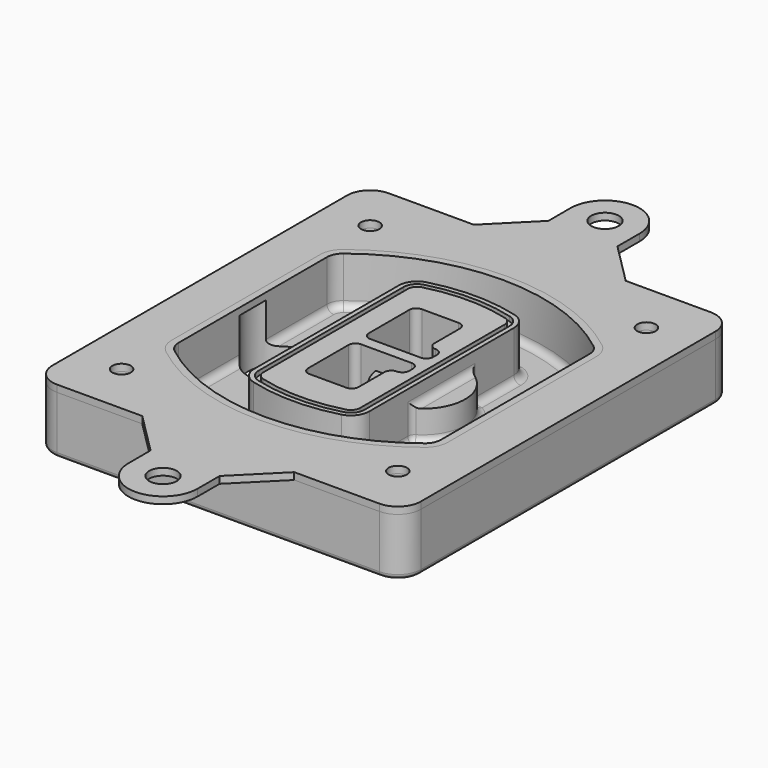
from build123d import *

# Parameters (mm, degrees)
F0_R      = 4
F1_DEPTH  = 25
F2_DEPTH  = 3
F3_DEPTH  = 18
F5_DEPTH  = 21
F6_DEPTH  = 2
F8_DEPTH  = 20
F9_DEPTH  = 16
F10_DEPTH = 25
F7_R      = 6
F7_R_2    = 4
F11_DEPTH = 6
F13_DEPTH = 9
F14_R     = 3
F15_R     = 2
F16_R     = 6
F16_R_2   = 4
F17_DEPTH = 3


with BuildPart() as f1:
    # F0 (on Top) → F1 (new body)
    with BuildSketch(Plane.XY):
        with BuildLine():
            ThreePointArc((-80, -80), (-77.0710678119, -87.0710678119), (-70, -90))
            Line((-70, -90), (70, -90))
            ThreePointArc((70, -90), (77.0710678119, -87.0710678119), (80, -80))
            Line((80, -80), (80, 80))
            ThreePointArc((80, 80), (77.0710678119, 87.0710678119), (70, 90))
            Line((70, 90), (-70, 90))
            ThreePointArc((-70, 90), (-77.0710678119, 87.0710678119), (-80, 80))
            Line((-80, 80), (-80, -80))
        make_face()
        with Locations((-60, -67.5)):
            Circle(F0_R, mode=Mode.SUBTRACT)
        with Locations((60, -67.5)):
            Circle(F0_R, mode=Mode.SUBTRACT)
        with Locations((-60, 67.5)):
            Circle(F0_R, mode=Mode.SUBTRACT)
        with BuildLine():
            ThreePointArc((-64, 40.2934422872), (-62.5820384798, 46.4328484224), (-58.6153846154, 51.3286200352))
            ThreePointArc((-58.6153846154, 51.3286200352), (0, 71.5), (58.6153846154, 51.3286200352))
            ThreePointArc((58.6153846154, 51.3286200352), (62.5820384798, 46.4328484224), (64, 40.2934422872))
            Line((64, 40.2934422872), (64, -40.2934422872))
            ThreePointArc((64, -40.2934422872), (62.5820384798, -46.4328484224), (58.6153846154, -51.3286200352))
            ThreePointArc((58.6153846154, -51.3286200352), (0, -71.5), (-58.6153846154, -51.3286200352))
            ThreePointArc((-58.6153846154, -51.3286200352), (-62.5820384798, -46.4328484224), (-64, -40.2934422872))
            Line((-64, -40.2934422872), (-64, 40.2934422872))
        make_face(mode=Mode.SUBTRACT)
        with Locations((60, 67.5)):
            Circle(F0_R, mode=Mode.SUBTRACT)
        with BuildLine():
            ThreePointArc((58.6153846154, 51.3286200352), (0, 71.5), (-58.6153846154, 51.3286200352))
            ThreePointArc((-58.6153846154, 51.3286200352), (-62.5820384798, 46.4328484224), (-64, 40.2934422872))
            Line((-64, 40.2934422872), (-64, -40.2934422872))
            ThreePointArc((-64, -40.2934422872), (-62.5820384798, -46.4328484224), (-58.6153846154, -51.3286200352))
            ThreePointArc((-58.6153846154, -51.3286200352), (0, -71.5), (58.6153846154, -51.3286200352))
            ThreePointArc((58.6153846154, -51.3286200352), (62.5820384798, -46.4328484224), (64, -40.2934422872))
            Line((64, -40.2934422872), (64, 40.2934422872))
            ThreePointArc((64, 40.2934422872), (62.5820384798, 46.4328484224), (58.6153846154, 51.3286200352))
        make_face()
        with BuildLine():
            Line((-60, -40.2934422872), (-60, 40.2934422872))
            ThreePointArc((-60, 40.2934422872), (-58.9871703427, 44.6787323838), (-56.1538461538, 48.1757121072))
            ThreePointArc((-56.1538461538, 48.1757121072), (0, 67.5), (56.1538461538, 48.1757121072))
            ThreePointArc((56.1538461538, 48.1757121072), (58.9871703427, 44.6787323838), (60, 40.2934422872))
            Line((60, 40.2934422872), (60, -40.2934422872))
            ThreePointArc((60, -40.2934422872), (58.9871703427, -44.6787323838), (56.1538461538, -48.1757121072))
            ThreePointArc((56.1538461538, -48.1757121072), (0, -67.5), (-56.1538461538, -48.1757121072))
            ThreePointArc((-56.1538461538, -48.1757121072), (-58.9871703427, -44.6787323838), (-60, -40.2934422872))
        make_face(mode=Mode.SUBTRACT)
        with BuildLine():
            ThreePointArc((-56.1538461538, 48.1757121072), (-58.9871703427, 44.6787323838), (-60, 40.2934422872))
            Line((-60, 40.2934422872), (-60, -40.2934422872))
            ThreePointArc((-60, -40.2934422872), (-58.9871703427, -44.6787323838), (-56.1538461538, -48.1757121072))
            ThreePointArc((-56.1538461538, -48.1757121072), (0, -67.5), (56.1538461538, -48.1757121072))
            ThreePointArc((56.1538461538, -48.1757121072), (58.9871703427, -44.6787323838), (60, -40.2934422872))
            Line((60, -40.2934422872), (60, 40.2934422872))
            ThreePointArc((60, 40.2934422872), (58.9871703427, 44.6787323838), (56.1538461538, 48.1757121072))
            ThreePointArc((56.1538461538, 48.1757121072), (0, 67.5), (-56.1538461538, 48.1757121072))
        make_face()
        with BuildLine():
            ThreePointArc((54.3076923077, 45.8110311612), (56.2910192399, 43.3631453548), (57, 40.2934422872))
            Line((57, 40.2934422872), (57, -40.2934422872))
            ThreePointArc((57, -40.2934422872), (56.2910192399, -43.3631453548), (54.3076923077, -45.8110311612))
            ThreePointArc((54.3076923077, -45.8110311612), (0, -64.5), (-54.3076923077, -45.8110311612))
            ThreePointArc((-54.3076923077, -45.8110311612), (-56.2910192399, -43.3631453548), (-57, -40.2934422872))
            Line((-57, -40.2934422872), (-57, 40.2934422872))
            ThreePointArc((-57, 40.2934422872), (-56.2910192399, 43.3631453548), (-54.3076923077, 45.8110311612))
            ThreePointArc((-54.3076923077, 45.8110311612), (0, 64.5), (54.3076923077, 45.8110311612))
        make_face(mode=Mode.SUBTRACT)
        with BuildLine():
            Line((57, -40.2934422872), (57, 40.2934422872))
            ThreePointArc((57, 40.2934422872), (56.2910192399, 43.3631453548), (54.3076923077, 45.8110311612))
            ThreePointArc((54.3076923077, 45.8110311612), (0, 64.5), (-54.3076923077, 45.8110311612))
            ThreePointArc((-54.3076923077, 45.8110311612), (-56.2910192399, 43.3631453548), (-57, 40.2934422872))
            Line((-57, 40.2934422872), (-57, -40.2934422872))
            ThreePointArc((-57, -40.2934422872), (-56.2910192399, -43.3631453548), (-54.3076923077, -45.8110311612))
            ThreePointArc((-54.3076923077, -45.8110311612), (0, -64.5), (54.3076923077, -45.8110311612))
            ThreePointArc((54.3076923077, -45.8110311612), (56.2910192399, -43.3631453548), (57, -40.2934422872))
        make_face()
    extrude(amount=-F1_DEPTH)

    # F0 (on Top) → F2 (join)
    with BuildSketch(Plane.XY):
        with BuildLine():
            ThreePointArc((-56.1538461538, 48.1757121072), (-58.9871703427, 44.6787323838), (-60, 40.2934422872))
            Line((-60, 40.2934422872), (-60, -40.2934422872))
            ThreePointArc((-60, -40.2934422872), (-58.9871703427, -44.6787323838), (-56.1538461538, -48.1757121072))
            ThreePointArc((-56.1538461538, -48.1757121072), (0, -67.5), (56.1538461538, -48.1757121072))
            ThreePointArc((56.1538461538, -48.1757121072), (58.9871703427, -44.6787323838), (60, -40.2934422872))
            Line((60, -40.2934422872), (60, 40.2934422872))
            ThreePointArc((60, 40.2934422872), (58.9871703427, 44.6787323838), (56.1538461538, 48.1757121072))
            ThreePointArc((56.1538461538, 48.1757121072), (0, 67.5), (-56.1538461538, 48.1757121072))
        make_face()
        with BuildLine():
            ThreePointArc((54.3076923077, 45.8110311612), (56.2910192399, 43.3631453548), (57, 40.2934422872))
            Line((57, 40.2934422872), (57, -40.2934422872))
            ThreePointArc((57, -40.2934422872), (56.2910192399, -43.3631453548), (54.3076923077, -45.8110311612))
            ThreePointArc((54.3076923077, -45.8110311612), (0, -64.5), (-54.3076923077, -45.8110311612))
            ThreePointArc((-54.3076923077, -45.8110311612), (-56.2910192399, -43.3631453548), (-57, -40.2934422872))
            Line((-57, -40.2934422872), (-57, 40.2934422872))
            ThreePointArc((-57, 40.2934422872), (-56.2910192399, 43.3631453548), (-54.3076923077, 45.8110311612))
            ThreePointArc((-54.3076923077, 45.8110311612), (0, 64.5), (54.3076923077, 45.8110311612))
        make_face(mode=Mode.SUBTRACT)
    extrude(amount=F2_DEPTH)

    # F0 (on Top) → F3 (cut)
    with BuildSketch(Plane.XY):
        with BuildLine():
            Line((57, -40.2934422872), (57, 40.2934422872))
            ThreePointArc((57, 40.2934422872), (56.2910192399, 43.3631453548), (54.3076923077, 45.8110311612))
            ThreePointArc((54.3076923077, 45.8110311612), (0, 64.5), (-54.3076923077, 45.8110311612))
            ThreePointArc((-54.3076923077, 45.8110311612), (-56.2910192399, 43.3631453548), (-57, 40.2934422872))
            Line((-57, 40.2934422872), (-57, -40.2934422872))
            ThreePointArc((-57, -40.2934422872), (-56.2910192399, -43.3631453548), (-54.3076923077, -45.8110311612))
            ThreePointArc((-54.3076923077, -45.8110311612), (0, -64.5), (54.3076923077, -45.8110311612))
            ThreePointArc((54.3076923077, -45.8110311612), (56.2910192399, -43.3631453548), (57, -40.2934422872))
        make_face()
    extrude(amount=-F3_DEPTH, mode=Mode.SUBTRACT)

    # F4 (on face) → F5 (join, through all)
    with BuildSketch(Plane.XY.offset(3)):
        with BuildLine():
            ThreePointArc((-25, -39.2465276821), (-23.3511545998, -44.1109737193), (-19.0842911877, -46.9702398883))
            ThreePointArc((-19.0842911877, -46.9702398883), (0, -49.5), (19.0842911877, -46.9702398883))
            ThreePointArc((19.0842911877, -46.9702398883), (23.3511545998, -44.1109737193), (25, -39.2465276821))
            Line((25, -39.2465276821), (25, 39.2465276821))
            ThreePointArc((25, 39.2465276821), (23.3511545998, 44.1109737193), (19.0842911877, 46.9702398883))
            ThreePointArc((19.0842911877, 46.9702398883), (0, 49.5), (-19.0842911877, 46.9702398883))
            ThreePointArc((-19.0842911877, 46.9702398883), (-23.3511545998, 44.1109737193), (-25, 39.2465276821))
            Line((-25, 39.2465276821), (-25, -39.2465276821))
        make_face()
        with BuildLine():
            ThreePointArc((18.5632183908, 45.0393118368), (21.7633659499, 42.89486221), (23, 39.2465276821))
            Line((23, 39.2465276821), (23, -39.2465276821))
            ThreePointArc((23, -39.2465276821), (21.7633659499, -42.89486221), (18.5632183908, -45.0393118368))
            ThreePointArc((18.5632183908, -45.0393118368), (0, -47.5), (-18.5632183908, -45.0393118368))
            ThreePointArc((-18.5632183908, -45.0393118368), (-21.7633659499, -42.89486221), (-23, -39.2465276821))
            Line((-23, -39.2465276821), (-23, 39.2465276821))
            ThreePointArc((-23, 39.2465276821), (-21.7633659499, 42.89486221), (-18.5632183908, 45.0393118368))
            ThreePointArc((-18.5632183908, 45.0393118368), (0, 47.5), (18.5632183908, 45.0393118368))
        make_face(mode=Mode.SUBTRACT)
        with BuildLine():
            Line((23, -39.2465276821), (23, 39.2465276821))
            ThreePointArc((23, 39.2465276821), (21.7633659499, 42.89486221), (18.5632183908, 45.0393118368))
            ThreePointArc((18.5632183908, 45.0393118368), (0, 47.5), (-18.5632183908, 45.0393118368))
            ThreePointArc((-18.5632183908, 45.0393118368), (-21.7633659499, 42.89486221), (-23, 39.2465276821))
            Line((-23, 39.2465276821), (-23, -39.2465276821))
            ThreePointArc((-23, -39.2465276821), (-21.7633659499, -42.89486221), (-18.5632183908, -45.0393118368))
            ThreePointArc((-18.5632183908, -45.0393118368), (0, -47.5), (18.5632183908, -45.0393118368))
            ThreePointArc((18.5632183908, -45.0393118368), (21.7633659499, -42.89486221), (23, -39.2465276821))
        make_face()
        with BuildLine():
            ThreePointArc((18.0421455939, 43.1083837852), (20.1755772999, 41.6787507007), (21, 39.2465276821))
            Line((21, 39.2465276821), (21, -39.2465276821))
            ThreePointArc((21, -39.2465276821), (20.1755772999, -41.6787507007), (18.0421455939, -43.1083837852))
            ThreePointArc((18.0421455939, -43.1083837852), (0, -45.5), (-18.0421455939, -43.1083837852))
            ThreePointArc((-18.0421455939, -43.1083837852), (-20.1755772999, -41.6787507007), (-21, -39.2465276821))
            Line((-21, -39.2465276821), (-21, 39.2465276821))
            ThreePointArc((-21, 39.2465276821), (-20.1755772999, 41.6787507007), (-18.0421455939, 43.1083837852))
            ThreePointArc((-18.0421455939, 43.1083837852), (0, 45.5), (18.0421455939, 43.1083837852))
        make_face(mode=Mode.SUBTRACT)
        with BuildLine():
            Line((21, -39.2465276821), (21, 39.2465276821))
            ThreePointArc((21, 39.2465276821), (20.1755772999, 41.6787507007), (18.0421455939, 43.1083837852))
            ThreePointArc((18.0421455939, 43.1083837852), (0, 45.5), (-18.0421455939, 43.1083837852))
            ThreePointArc((-18.0421455939, 43.1083837852), (-20.1755772999, 41.6787507007), (-21, 39.2465276821))
            Line((-21, 39.2465276821), (-21, -39.2465276821))
            ThreePointArc((-21, -39.2465276821), (-20.1755772999, -41.6787507007), (-18.0421455939, -43.1083837852))
            ThreePointArc((-18.0421455939, -43.1083837852), (0, -45.5), (18.0421455939, -43.1083837852))
            ThreePointArc((18.0421455939, -43.1083837852), (20.1755772999, -41.6787507007), (21, -39.2465276821))
        make_face()
        with BuildLine():
            Line((-8, -2.5), (14, -2.5))
            ThreePointArc((14, -2.5), (16.1213203436, -3.3786796564), (17, -5.5))
            Line((17, -5.5), (17, -7.5))
            ThreePointArc((17, -7.5), (16.1213203436, -9.6213203436), (14, -10.5))
            ThreePointArc((14, -10.5), (11.8786796564, -11.3786796564), (11, -13.5))
            Line((11, -13.5), (11, -27.5))
            ThreePointArc((11, -27.5), (10.1213203436, -29.6213203436), (8, -30.5))
            Line((8, -30.5), (-8, -30.5))
            ThreePointArc((-8, -30.5), (-10.1213203436, -29.6213203436), (-11, -27.5))
            Line((-11, -27.5), (-11, -5.5))
            ThreePointArc((-11, -5.5), (-10.1213203436, -3.3786796564), (-8, -2.5))
        make_face(mode=Mode.SUBTRACT)
        with BuildLine():
            ThreePointArc((-8, 2.5), (-10.1213203436, 3.3786796564), (-11, 5.5))
            Line((-11, 5.5), (-11, 27.5))
            ThreePointArc((-11, 27.5), (-10.1213203436, 29.6213203436), (-8, 30.5))
            Line((-8, 30.5), (8, 30.5))
            ThreePointArc((8, 30.5), (10.1213203436, 29.6213203436), (11, 27.5))
            Line((11, 27.5), (11, 13.5))
            ThreePointArc((11, 13.5), (11.8786796564, 11.3786796564), (14, 10.5))
            ThreePointArc((14, 10.5), (16.1213203436, 9.6213203436), (17, 7.5))
            Line((17, 7.5), (17, 5.5))
            ThreePointArc((17, 5.5), (16.1213203436, 3.3786796564), (14, 2.5))
            Line((14, 2.5), (-8, 2.5))
        make_face(mode=Mode.SUBTRACT)
    extrude(amount=-F5_DEPTH)

    # F4 (on face) → F6 (cut)
    with BuildSketch(Plane.XY.offset(3)):
        with BuildLine():
            Line((23, -39.2465276821), (23, 39.2465276821))
            ThreePointArc((23, 39.2465276821), (21.7633659499, 42.89486221), (18.5632183908, 45.0393118368))
            ThreePointArc((18.5632183908, 45.0393118368), (0, 47.5), (-18.5632183908, 45.0393118368))
            ThreePointArc((-18.5632183908, 45.0393118368), (-21.7633659499, 42.89486221), (-23, 39.2465276821))
            Line((-23, 39.2465276821), (-23, -39.2465276821))
            ThreePointArc((-23, -39.2465276821), (-21.7633659499, -42.89486221), (-18.5632183908, -45.0393118368))
            ThreePointArc((-18.5632183908, -45.0393118368), (0, -47.5), (18.5632183908, -45.0393118368))
            ThreePointArc((18.5632183908, -45.0393118368), (21.7633659499, -42.89486221), (23, -39.2465276821))
        make_face()
        with BuildLine():
            ThreePointArc((18.0421455939, 43.1083837852), (20.1755772999, 41.6787507007), (21, 39.2465276821))
            Line((21, 39.2465276821), (21, -39.2465276821))
            ThreePointArc((21, -39.2465276821), (20.1755772999, -41.6787507007), (18.0421455939, -43.1083837852))
            ThreePointArc((18.0421455939, -43.1083837852), (0, -45.5), (-18.0421455939, -43.1083837852))
            ThreePointArc((-18.0421455939, -43.1083837852), (-20.1755772999, -41.6787507007), (-21, -39.2465276821))
            Line((-21, -39.2465276821), (-21, 39.2465276821))
            ThreePointArc((-21, 39.2465276821), (-20.1755772999, 41.6787507007), (-18.0421455939, 43.1083837852))
            ThreePointArc((-18.0421455939, 43.1083837852), (0, 45.5), (18.0421455939, 43.1083837852))
        make_face(mode=Mode.SUBTRACT)
    extrude(amount=-F6_DEPTH, mode=Mode.SUBTRACT)

    # F7 (on face) → F8 (join)
    with BuildSketch(Plane(origin=(0, 0, -25), x_dir=(1, 0, 0), z_dir=(0, 0, -1))):
        with BuildLine():
            ThreePointArc((3.28842436, 0), (16.7567035675, 13.4682792075), (30.224982775, 0))
            Line((30.224982775, 0), (35.224982775, 0))
            ThreePointArc((35.224982775, 0), (16.7567035675, 18.4682792075), (-1.71157564, 0))
            Line((-1.71157564, 0), (3.28842436, 0))
        make_face()
        with BuildLine():
            Line((3.28842436, 0), (30.224982775, 0))
            ThreePointArc((30.224982775, 0), (16.7567035675, 13.4682792075), (3.28842436, 0))
        make_face()
        with BuildLine():
            ThreePointArc((3.28842436, 0), (16.7567035675, -13.4682792075), (30.224982775, 0))
            Line((30.224982775, 0), (3.28842436, 0))
        make_face()
        with BuildLine():
            Line((35.224982775, 0), (30.224982775, 0))
            ThreePointArc((30.224982775, 0), (16.7567035675, -13.4682792075), (3.28842436, 0))
            Line((3.28842436, 0), (-1.71157564, 0))
            ThreePointArc((-1.71157564, 0), (16.7567035675, -18.4682792075), (35.224982775, 0))
        make_face()
    extrude(amount=-F8_DEPTH)

    # F7 (on face) → F9 (cut)
    with BuildSketch(Plane(origin=(0, 0, -25), x_dir=(1, 0, 0), z_dir=(0, 0, -1))):
        with BuildLine():
            Line((3.28842436, 0), (30.224982775, 0))
            ThreePointArc((30.224982775, 0), (16.7567035675, 13.4682792075), (3.28842436, 0))
        make_face()
        with BuildLine():
            ThreePointArc((3.28842436, 0), (16.7567035675, -13.4682792075), (30.224982775, 0))
            Line((30.224982775, 0), (3.28842436, 0))
        make_face()
    extrude(amount=-F9_DEPTH, mode=Mode.SUBTRACT)

    # F7 (on face) → F10 (cut)
    with BuildSketch(Plane(origin=(0, 0, -25), x_dir=(1, 0, 0), z_dir=(0, 0, -1))):
        with BuildLine():
            Line((-59.0318229325, 0), (-32.0952645175, 0))
            ThreePointArc((-32.0952645175, 0), (-45.563543725, 13.4682792075), (-59.0318229325, 0))
        make_face()
        with BuildLine():
            ThreePointArc((-59.0318229325, 0), (-45.563543725, -13.4682792075), (-32.0952645175, 0))
            Line((-32.0952645175, 0), (-59.0318229325, 0))
        make_face()
    extrude(amount=-F10_DEPTH, mode=Mode.SUBTRACT)

    # F7 (on face) → F11 (cut)
    with BuildSketch(Plane(origin=(0, 0, -25), x_dir=(1, 0, 0), z_dir=(0, 0, -1))):
        with Locations((60, -67.5)):
            Circle(F7_R)
        with Locations((60, -67.5)):
            Circle(F7_R_2, mode=Mode.SUBTRACT)
        with Locations((60, -67.5)):
            Circle(F7_R)
        with Locations((60, -67.5)):
            Circle(F7_R_2, mode=Mode.SUBTRACT)
        with Locations((-60, -67.5)):
            Circle(F7_R)
        with Locations((-60, -67.5)):
            Circle(F7_R_2, mode=Mode.SUBTRACT)
        with Locations((-60, -67.5)):
            Circle(F7_R)
        with Locations((-60, -67.5)):
            Circle(F7_R_2, mode=Mode.SUBTRACT)
        with Locations((-60, 67.5)):
            Circle(F7_R)
        with Locations((-60, 67.5)):
            Circle(F7_R_2, mode=Mode.SUBTRACT)
        with Locations((-60, 67.5)):
            Circle(F7_R)
        with Locations((-60, 67.5)):
            Circle(F7_R_2, mode=Mode.SUBTRACT)
        with Locations((60, 67.5)):
            Circle(F7_R)
        with Locations((60, 67.5)):
            Circle(F7_R_2, mode=Mode.SUBTRACT)
        with Locations((60, 67.5)):
            Circle(F7_R)
        with Locations((60, 67.5)):
            Circle(F7_R_2, mode=Mode.SUBTRACT)
    extrude(amount=-F11_DEPTH, mode=Mode.SUBTRACT)

    # F12 (on face) → F13 (cut, through all)
    with BuildSketch(Plane(origin=(0, 0, -9), x_dir=(1, 0, 0), z_dir=(0, 0, -1))):
        with BuildLine():
            Line((11, 13.5), (11, 17.5481537753))
            ThreePointArc((11, 17.5481537753), (2.5696536419, 11.8239143813), (-1.5415842455, 2.5))
            Line((-1.5415842455, 2.5), (3.5224848595, 2.5))
            ThreePointArc((3.5224848595, 2.5), (6.1857188154, 8.3455872281), (11.2536447004, 12.2927168648))
            ThreePointArc((11.2536447004, 12.2927168648), (11.0640958889, 12.8831798879), (11, 13.5))
        make_face()
        with BuildLine():
            ThreePointArc((11.2536447004, -12.2927168648), (6.1857188154, -8.3455872281), (3.5224848595, -2.5))
            Line((3.5224848595, -2.5), (-1.5415842455, -2.5))
            ThreePointArc((-1.5415842455, -2.5), (2.5696536419, -11.8239143813), (11, -17.5481537753))
            Line((11, -17.5481537753), (11, -13.5))
            ThreePointArc((11, -13.5), (11.0640958889, -12.8831798879), (11.2536447004, -12.2927168648))
        make_face()
        with BuildLine():
            ThreePointArc((11.2536447004, 12.2927168648), (6.1857188154, 8.3455872281), (3.5224848595, 2.5))
            Line((3.5224848595, 2.5), (14, 2.5))
            ThreePointArc((14, 2.5), (16.1213203436, 3.3786796564), (17, 5.5))
            Line((17, 5.5), (17, 7.5))
            ThreePointArc((17, 7.5), (16.1213203436, 9.6213203436), (14, 10.5))
            ThreePointArc((14, 10.5), (12.3601599782, 10.9878446101), (11.2536447004, 12.2927168648))
        make_face()
        with BuildLine():
            Line((14, -2.5), (3.5224848595, -2.5))
            ThreePointArc((3.5224848595, -2.5), (6.1857188154, -8.3455872281), (11.2536447004, -12.2927168648))
            ThreePointArc((11.2536447004, -12.2927168648), (12.3601599782, -10.9878446101), (14, -10.5))
            ThreePointArc((14, -10.5), (16.1213203436, -9.6213203436), (17, -7.5))
            Line((17, -7.5), (17, -5.5))
            ThreePointArc((17, -5.5), (16.1213203436, -3.3786796564), (14, -2.5))
        make_face()
    extrude(amount=F13_DEPTH, mode=Mode.SUBTRACT)

    # F14
    f14_edges = [f1.edges().sort_by_distance(p)[0] for p in [
        (-57, -23.703476, -18),
        (-57, 23.703476, -18),
        (25, 0, -5),
        (25, 16.526506, -11.5),
        (25, -16.526506, -11.5),
        (25, -27.886517, -18),
        (35.224983, 0, -18),
    ]]
    fillet(f14_edges, radius=F14_R)

    # F15
    f15_edges = [f1.edges().sort_by_distance(p)[0] for p in [
        (0, -90, -25),
    ]]
    fillet(f15_edges, radius=F15_R)


with BuildPart() as f17:
    # F16 (on face) → F17 (new body, through all)
    with BuildSketch(Plane.XY):
        with BuildLine():
            ThreePointArc((-15, 120), (0, 105), (15, 120))
            ThreePointArc((15, 120), (0, 135), (-15, 120))
        make_face()
        with Locations((0, 120)):
            Circle(F16_R, mode=Mode.SUBTRACT)
        with BuildLine():
            Line((15, 108), (15, 120))
            ThreePointArc((15, 120), (0, 105), (-15, 120))
            Line((-15, 120), (-15, 108))
            Line((-15, 108), (-33, 90))
            Line((-33, 90), (33, 90))
            Line((33, 90), (15, 108))
        make_face()
        with BuildLine():
            Line((70, 90), (33, 90))
            Line((33, 90), (-33, 90))
            Line((-33, 90), (-70, 90))
            ThreePointArc((-70, 90), (-77.0710678119, 87.0710678119), (-80, 80))
            Line((-80, 80), (-80, -80))
            ThreePointArc((-80, -80), (-77.0710678119, -87.0710678119), (-70, -90))
            Line((-70, -90), (-33, -90))
            Line((-33, -90), (33, -90))
            Line((33, -90), (70, -90))
            ThreePointArc((70, -90), (77.0710678119, -87.0710678119), (80, -80))
            Line((80, -80), (80, 80))
            ThreePointArc((80, 80), (77.0710678119, 87.0710678119), (70, 90))
        make_face()
        with Locations((-60, -67.5)):
            Circle(F16_R_2, mode=Mode.SUBTRACT)
        with Locations((60, -67.5)):
            Circle(F16_R_2, mode=Mode.SUBTRACT)
        with Locations((-60, 67.5)):
            Circle(F16_R_2, mode=Mode.SUBTRACT)
        with BuildLine():
            ThreePointArc((-60, 40.2934422872), (-58.9871703427, 44.6787323838), (-56.1538461538, 48.1757121072))
            ThreePointArc((-56.1538461538, 48.1757121072), (0, 67.5), (56.1538461538, 48.1757121072))
            ThreePointArc((56.1538461538, 48.1757121072), (58.9871703427, 44.6787323838), (60, 40.2934422872))
            Line((60, 40.2934422872), (60, -40.2934422872))
            ThreePointArc((60, -40.2934422872), (58.9871703427, -44.6787323838), (56.1538461538, -48.1757121072))
            ThreePointArc((56.1538461538, -48.1757121072), (0, -67.5), (-56.1538461538, -48.1757121072))
            ThreePointArc((-56.1538461538, -48.1757121072), (-58.9871703427, -44.6787323838), (-60, -40.2934422872))
            Line((-60, -40.2934422872), (-60, 40.2934422872))
        make_face(mode=Mode.SUBTRACT)
        with Locations((60, 67.5)):
            Circle(F16_R_2, mode=Mode.SUBTRACT)
        with BuildLine():
            Line((15, -108), (33, -90))
            Line((33, -90), (-33, -90))
            Line((-33, -90), (-15, -108))
            Line((-15, -108), (-15, -120))
            ThreePointArc((-15, -120), (0, -105), (15, -120))
            Line((15, -120), (15, -108))
        make_face()
        with BuildLine():
            ThreePointArc((-15, -120), (0, -135), (15, -120))
            ThreePointArc((15, -120), (0, -105), (-15, -120))
        make_face()
        with Locations((0, -120)):
            Circle(F16_R, mode=Mode.SUBTRACT)
    extrude(amount=F17_DEPTH)


solid = Compound([f1.part, f17.part])
